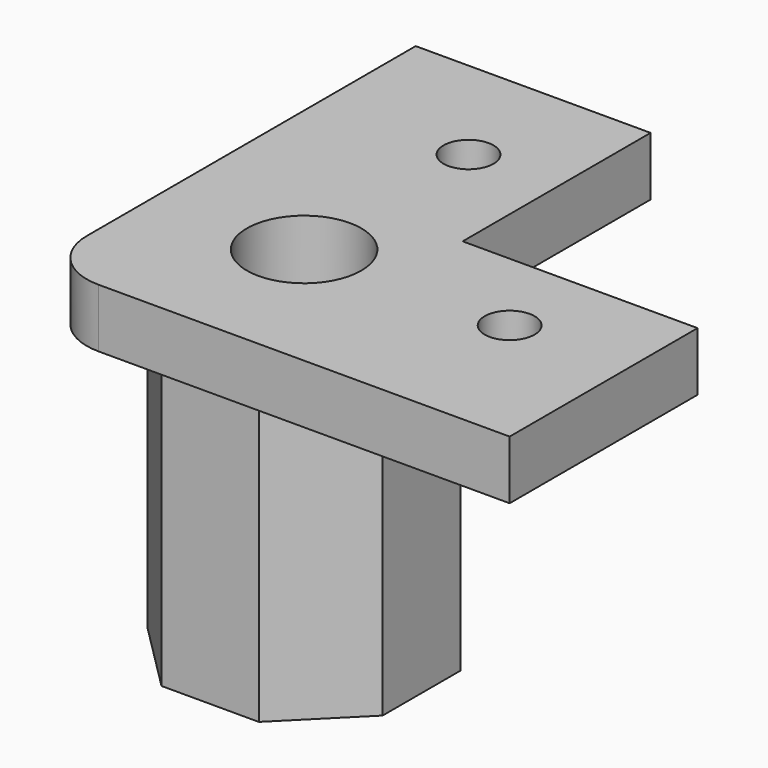
from build123d import *

# Parameters (mm, degrees)
F0_R     = 4.875
F0_R_2   = 2.125
F1_DEPTH = 5
F2_R     = 4.875
F3_DEPTH = 25


with BuildPart() as f1:
    # F0 (on Top) → F1 (new body)
    with BuildSketch(Plane.XY):
        with BuildLine():
            Line((-12.5, 27.5), (-12.5, 0))
            Line((-12.5, 0), (-12.5, -7.5))
            ThreePointArc((-12.5, -7.5), (-11.035534, -11.035534), (-7.5, -12.5))
            Line((-7.5, -12.5), (27.5, -12.5))
            Line((27.5, -12.5), (27.5, 7.5))
            Line((27.5, 7.5), (7.5, 7.5))
            Line((7.5, 7.5), (7.5, 27.5))
            Line((7.5, 27.5), (-12.5, 27.5))
        make_face()
        Circle(F0_R, mode=Mode.SUBTRACT)
        with Locations((17.5, 0)):
            Circle(F0_R_2, mode=Mode.SUBTRACT)
        with Locations((0, 17.5)):
            Circle(F0_R_2, mode=Mode.SUBTRACT)
    extrude(amount=F1_DEPTH)

    # F2 (on face) → F3 (join)
    with BuildSketch(Plane(origin=(0, 0, 0), x_dir=(1, 0, 0), z_dir=(0, 0, -1))):
        Polygon((10, -4.142136), (10, 4.142136), (4.142136, 10), (-4.142136, 10), (-10, 4.142136), (-10, -4.142136), (-4.142136, -10), (4.142136, -10), align=None)
        Circle(F2_R, mode=Mode.SUBTRACT)
    extrude(amount=F3_DEPTH)


solid = f1.part
